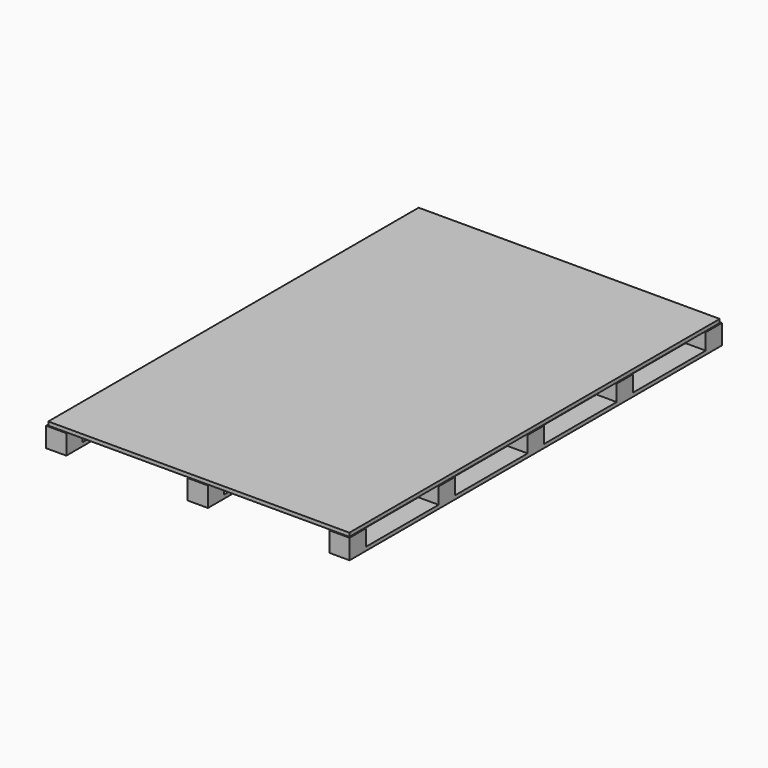
from build123d import *

# Parameters (mm, degrees)
F0_W     = 1488
F0_H     = 2288
F1_DEPTH = 18
F2_W     = 100
F2_H     = 100
F3_DEPTH = 80
F4_W     = 100
F4_H     = 2300
F5_DEPTH = 18


with BuildPart() as f1:
    # F0 (on Top) → F1 (new body)
    with BuildSketch(Plane.XY):
        Rectangle(F0_W, F0_H)
    extrude(amount=F1_DEPTH)

    # F2 (on face) → F3 (join)
    with BuildSketch(Plane(origin=(0, 0, 0), x_dir=(1, 0, 0), z_dir=(0, 0, -1))):
        with Locations((-700, 1100)):
            Rectangle(F2_W, F2_H)
        with Locations((-700, 550)):
            Rectangle(F2_W, F2_H)
        with Locations((-700, 0)):
            Rectangle(F2_W, F2_H)
        with Locations((-700, -550)):
            Rectangle(F2_W, F2_H)
        with Locations((-700, -1100)):
            Rectangle(F2_W, F2_H)
        with Locations((0, 1100)):
            Rectangle(F2_W, F2_H)
        with Locations((0, 550)):
            Rectangle(F2_W, F2_H)
        Rectangle(F2_W, F2_H)
        with Locations((0, -550)):
            Rectangle(F2_W, F2_H)
        with Locations((0, -1100)):
            Rectangle(F2_W, F2_H)
        with Locations((700, 1100)):
            Rectangle(F2_W, F2_H)
        with Locations((700, 550)):
            Rectangle(F2_W, F2_H)
        with Locations((700, 0)):
            Rectangle(F2_W, F2_H)
        with Locations((700, -550)):
            Rectangle(F2_W, F2_H)
        with Locations((700, -1100)):
            Rectangle(F2_W, F2_H)
    extrude(amount=F3_DEPTH)

    # F4 (on face) → F5 (join)
    with BuildSketch(Plane(origin=(0, 0, -80), x_dir=(1, 0, 0), z_dir=(0, 0, -1))):
        with Locations((-700, 0)):
            Rectangle(F4_W, F4_H)
        Rectangle(F4_W, F4_H)
        with Locations((700, 0)):
            Rectangle(F4_W, F4_H)
    extrude(amount=F5_DEPTH)


solid = f1.part
